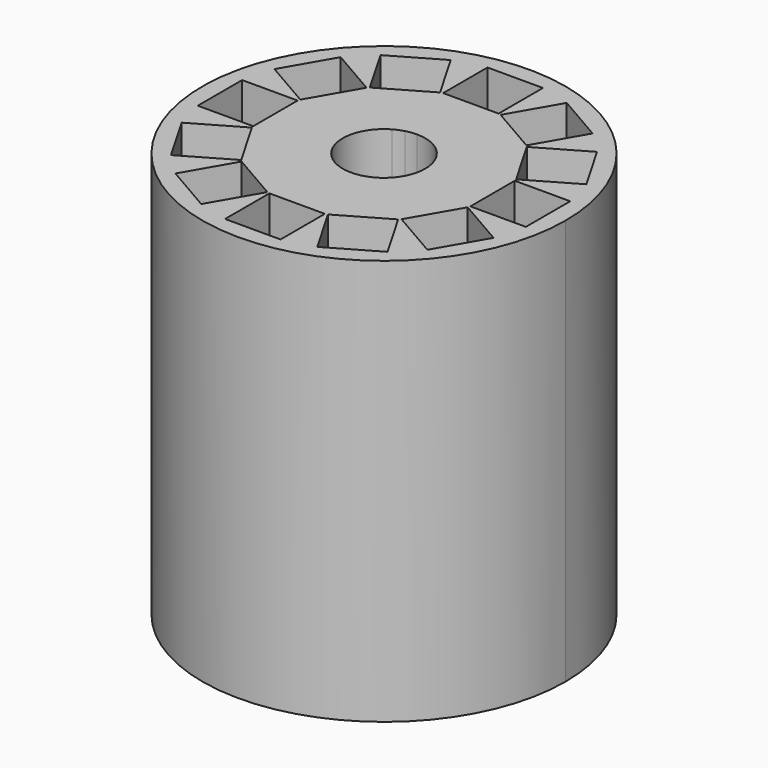
from build123d import *

# Parameters (mm, degrees)
F1_DEPTH = 30


with BuildPart() as f1:
    # F0 (on Top) → F1 (new body)
    with BuildSketch(Plane.XY):
        with BuildLine():
            ThreePointArc((13.4239092363, 0), (8.1719581696, 10.6499032324), (-3.4743633701, 12.9665006211))
            ThreePointArc((-3.4743633701, 12.9665006211), (-8.1719581696, -10.6499032324), (13.4239092363, 0))
        make_face()
        Polygon((-2.2366025404, 7.9739092363), (-2.15, 8.0239092363), (-2.05, 8.0239092363), (-2.05, 12.1239092363), (2.05, 12.1239092363), (2.05, 8.0239092363), (2.15, 8.0239092363), (2.2366025404, 7.9739092363), (4.2866025404, 11.5246133918), (7.8373066959, 9.4746133918), (5.7873066959, 5.9239092363), (5.8739092363, 5.8739092363), (5.9239092363, 5.7873066959), (9.4746133918, 7.8373066959), (11.5246133918, 4.2866025404), (7.9739092363, 2.2366025404), (8.0239092363, 2.15), (8.0239092363, 2.05), (12.1239092363, 2.05), (12.1239092363, -2.05), (8.0239092363, -2.05), (8.0239092363, -2.15), (7.9739092363, -2.2366025404), (11.5246133918, -4.2866025404), (9.4746133918, -7.8373066959), (5.9239092363, -5.7873066959), (5.8739092363, -5.8739092363), (5.7873066959, -5.9239092363), (7.8373066959, -9.4746133918), (4.2866025404, -11.5246133918), (2.2366025404, -7.9739092363), (2.15, -8.0239092363), (2.05, -8.0239092363), (2.05, -12.1239092363), (-2.05, -12.1239092363), (-2.05, -8.0239092363), (-2.15, -8.0239092363), (-2.2366025404, -7.9739092363), (-4.2866025404, -11.5246133918), (-7.8373066959, -9.4746133918), (-5.7873066959, -5.9239092363), (-5.8739092363, -5.8739092363), (-5.9239092363, -5.7873066959), (-9.4746133918, -7.8373066959), (-11.5246133918, -4.2866025404), (-7.9739092363, -2.2366025404), (-8.0239092363, -2.15), (-8.0239092363, -2.05), (-12.1239092363, -2.05), (-12.1239092363, 2.05), (-8.0239092363, 2.05), (-8.0239092363, 2.15), (-7.9739092363, 2.2366025404), (-11.5246133918, 4.2866025404), (-9.4746133918, 7.8373066959), (-5.9239092363, 5.7873066959), (-5.8739092363, 5.8739092363), (-5.7873066959, 5.9239092363), (-7.8373066959, 9.4746133918), (-4.2866025404, 11.5246133918), align=None, mode=Mode.SUBTRACT)
        with BuildLine():
            Line((0, 8.0239092363), (0, 3.05))
            ThreePointArc((0, 3.05), (2.1566756826, 2.1566756826), (3.05, 0))
            ThreePointArc((3.05, 0), (-1.525, -2.6413774815), (-1.525, 2.6413774815))
            Line((-1.525, 2.6413774815), (-4.0119546181, 6.9489092363))
            Line((-4.0119546181, 6.9489092363), (-5.7873066959, 5.9239092363))
            Line((-5.7873066959, 5.9239092363), (-5.8739092363, 5.8739092363))
            Line((-5.8739092363, 5.8739092363), (-5.9239092363, 5.7873066959))
            Line((-5.9239092363, 5.7873066959), (-7.9739092363, 2.2366025404))
            Line((-7.9739092363, 2.2366025404), (-8.0239092363, 2.15))
            Line((-8.0239092363, 2.15), (-8.0239092363, 2.05))
            Line((-8.0239092363, 2.05), (-8.0239092363, -2.05))
            Line((-8.0239092363, -2.05), (-8.0239092363, -2.15))
            Line((-8.0239092363, -2.15), (-7.9739092363, -2.2366025404))
            Line((-7.9739092363, -2.2366025404), (-5.9239092363, -5.7873066959))
            Line((-5.9239092363, -5.7873066959), (-5.8739092363, -5.8739092363))
            Line((-5.8739092363, -5.8739092363), (-5.7873066959, -5.9239092363))
            Line((-5.7873066959, -5.9239092363), (-2.2366025404, -7.9739092363))
            Line((-2.2366025404, -7.9739092363), (-2.15, -8.0239092363))
            Line((-2.15, -8.0239092363), (-2.05, -8.0239092363))
            Line((-2.05, -8.0239092363), (2.05, -8.0239092363))
            Line((2.05, -8.0239092363), (2.15, -8.0239092363))
            Line((2.15, -8.0239092363), (2.2366025404, -7.9739092363))
            Line((2.2366025404, -7.9739092363), (5.7873066959, -5.9239092363))
            Line((5.7873066959, -5.9239092363), (5.8739092363, -5.8739092363))
            Line((5.8739092363, -5.8739092363), (5.9239092363, -5.7873066959))
            Line((5.9239092363, -5.7873066959), (7.9739092363, -2.2366025404))
            Line((7.9739092363, -2.2366025404), (8.0239092363, -2.15))
            Line((8.0239092363, -2.15), (8.0239092363, -2.05))
            Line((8.0239092363, -2.05), (8.0239092363, 2.05))
            Line((8.0239092363, 2.05), (8.0239092363, 2.15))
            Line((8.0239092363, 2.15), (7.9739092363, 2.2366025404))
            Line((7.9739092363, 2.2366025404), (5.9239092363, 5.7873066959))
            Line((5.9239092363, 5.7873066959), (5.8739092363, 5.8739092363))
            Line((5.8739092363, 5.8739092363), (5.7873066959, 5.9239092363))
            Line((5.7873066959, 5.9239092363), (2.2366025404, 7.9739092363))
            Line((2.2366025404, 7.9739092363), (2.15, 8.0239092363))
            Line((2.15, 8.0239092363), (2.05, 8.0239092363))
            Line((2.05, 8.0239092363), (0, 8.0239092363))
        make_face()
        with BuildLine():
            ThreePointArc((-1.525, 2.6413774815), (-1.1671844687, 2.8178325742), (-0.7893980876, 2.9460737702))
            Line((-0.7893980876, 2.9460737702), (-2.15, 8.0239092363))
            Line((-2.15, 8.0239092363), (-2.2366025404, 7.9739092363))
            Line((-2.2366025404, 7.9739092363), (-4.0119546181, 6.9489092363))
            Line((-4.0119546181, 6.9489092363), (-1.525, 2.6413774815))
        make_face()
        with BuildLine():
            Line((-2.15, 8.0239092363), (-0.7893980876, 2.9460737702))
            ThreePointArc((-0.7893980876, 2.9460737702), (-0.3981048863, 3.0239068272), (0, 3.05))
            Line((0, 3.05), (0, 8.0239092363))
            Line((0, 8.0239092363), (-2.05, 8.0239092363))
            Line((-2.05, 8.0239092363), (-2.15, 8.0239092363))
        make_face()
    extrude(amount=F1_DEPTH)


solid = f1.part
